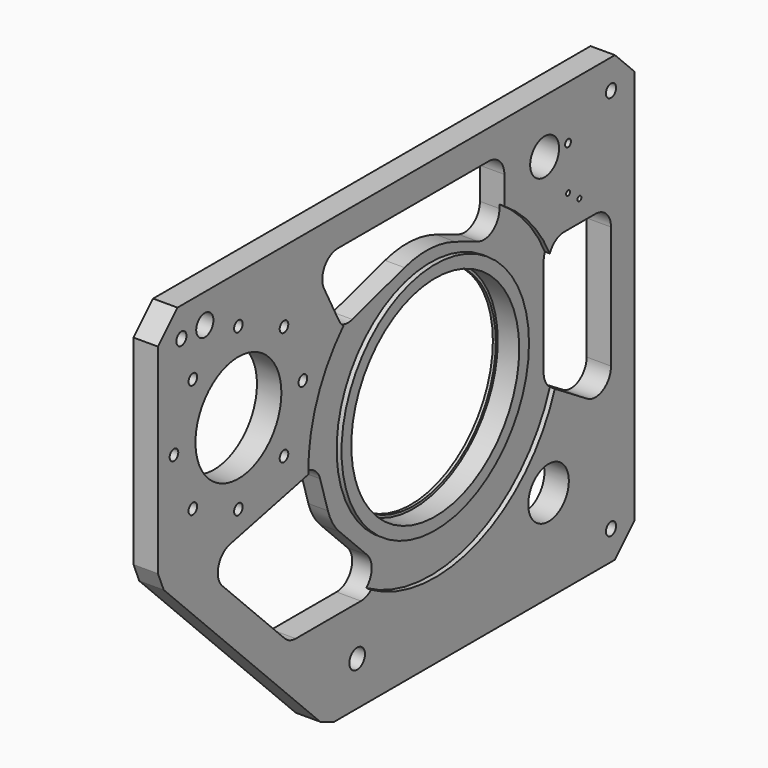
from build123d import *

# Parameters (mm, degrees)
F0_R     = 10
F0_R_2   = 6.5
F0_R_3   = 26
F0_R_4   = 5.5
F0_R_5   = 55
F0_R_6   = 11
F0_R_7   = 105
F0_R_8   = 2.5
F0_R_9   = 18.5
F0_R_10  = 3.75
F1_DEPTH = 25
F2_R     = 107.5
F3_DEPTH = 22
F4_R     = 162.5
F4_R_2   = 120
F5_DEPTH = 5


with BuildPart() as f1:
    # F0 (on Right) → F1 (new body)
    with BuildSketch(Plane.YZ):
        Polygon((255.000028, -215.000014), (255.000028, 189.999986), (230.000028, 214.999986), (-329.999972, 214.999986), (-354.999972, 189.999986), (-354.999972, -14.644675), (-347.677642, -32.322345), (-147.322303, -232.677684), (-129.644633, -240.000014), (230.000028, -240.000014), align=None)
        with Locations((-99.999965, -195.000014)):
            Circle(F0_R, mode=Mode.SUBTRACT)
        with BuildLine():
            ThreePointArc((-178.574351, -145), (-186.228019, -143.477591), (-192.716486, -139.142136))
            Line((-192.716486, -139.142136), (-272.546106, -59.312516))
            ThreePointArc((-272.546106, -59.312516), (-277.602171, -39.564214), (-262.713262, -25.640147))
            Line((-262.713262, -25.640147), (-164.601156, -3.991986))
            ThreePointArc((-164.601156, -3.991986), (-150.180759, -6.266335), (-141.147572, -17.734643))
            Line((-141.147572, -17.734643), (-131.216492, -50.584924))
            ThreePointArc((-131.216492, -50.584924), (-125.261921, -64.044001), (-116.21002, -75.648602))
            Line((-116.21002, -75.648602), (-81.000757, -110.857864))
            ThreePointArc((-81.000757, -110.857864), (-76.665302, -132.653669), (-95.142893, -145))
            Line((-95.142893, -145), (-178.574351, -145))
        make_face(mode=Mode.SUBTRACT)
        with Locations((225.000024, -210.000012)):
            Circle(F0_R_2, mode=Mode.SUBTRACT)
        with Locations((145.000028, -145.000014)):
            Circle(F0_R_3, mode=Mode.SUBTRACT)
        with Locations((-310.336309, 25.663677)):
            Circle(F0_R_4, mode=Mode.SUBTRACT)
        with Locations((-252, 1.499986)):
            Circle(F0_R_4, mode=Mode.SUBTRACT)
        with Locations((-334.5, 83.999986)):
            Circle(F0_R_4, mode=Mode.SUBTRACT)
        with Locations((-252, 83.999986)):
            Circle(F0_R_5, mode=Mode.SUBTRACT)
        with Locations((-193.663691, 25.663677)):
            Circle(F0_R_4, mode=Mode.SUBTRACT)
        with Locations((-169.5, 83.999986)):
            Circle(F0_R_4, mode=Mode.SUBTRACT)
        with Locations((-310.336309, 142.336296)):
            Circle(F0_R_4, mode=Mode.SUBTRACT)
        with Locations((-324.999969, 184.999984)):
            Circle(F0_R_2, mode=Mode.SUBTRACT)
        with Locations((-294.999969, 184.999984)):
            Circle(F0_R_6, mode=Mode.SUBTRACT)
        with Locations((-252, 166.499986)):
            Circle(F0_R_4, mode=Mode.SUBTRACT)
        with Locations((-193.663691, 142.336296)):
            Circle(F0_R_4, mode=Mode.SUBTRACT)
        Circle(F0_R_7, mode=Mode.SUBTRACT)
        with BuildLine():
            ThreePointArc((205, 82), (219.142136, 76.142136), (225, 62))
            Line((225, 62), (225, -63.360385))
            ThreePointArc((225, -63.360385), (214.713957, -80.842921), (194.436095, -80.342844))
            Line((194.436095, -80.342844), (154.436095, -55.460924))
            ThreePointArc((154.436095, -55.460924), (147.517464, -48.192421), (145, -38.478465))
            Line((145, -38.478465), (145, 62))
            ThreePointArc((145, 62), (150.857864, 76.142136), (165, 82))
            Line((165, 82), (205, 82))
        make_face(mode=Mode.SUBTRACT)
        with BuildLine():
            Line((-124.602032, 185), (68.436239, 185))
            ThreePointArc((68.436239, 185), (82.578374, 179.142136), (88.436239, 165))
            Line((88.436239, 165), (88.436239, 132.530642))
            ThreePointArc((88.436239, 132.530642), (79.651422, 115.971063), (61.014273, 113.95877))
            Line((61.014273, 113.95877), (31.989488, 125.558083))
            ThreePointArc((31.989488, 125.558083), (-0.279211, 132.581472), (-33.075883, 128.711678))
            Line((-33.075883, 128.711678), (-99.973507, 109.233479))
            ThreePointArc((-99.973507, 109.233479), (-113.421324, 110.043894), (-123.304149, 119.199785))
            Line((-123.304149, 119.199785), (-142.341565, 155.763715))
            ThreePointArc((-142.341565, 155.763715), (-141.700653, 175.374833), (-124.602032, 185))
        make_face(mode=Mode.SUBTRACT)
        with Locations((170.000028, 114.999986)):
            Circle(F0_R_8, mode=Mode.SUBTRACT)
        with Locations((184.547028, 104.131986)):
            Circle(F0_R_8, mode=Mode.SUBTRACT)
        with Locations((140.000028, 159.999986)):
            Circle(F0_R_9, mode=Mode.SUBTRACT)
        with Locations((170.000028, 159.999986)):
            Circle(F0_R_10, mode=Mode.SUBTRACT)
        with Locations((225.000024, 184.999984)):
            Circle(F0_R_2, mode=Mode.SUBTRACT)
    extrude(amount=F1_DEPTH)

    # F2 (on face) → F3 (cut)
    with BuildSketch(Plane.YZ.offset(25)):
        Circle(F2_R)
    extrude(amount=-F3_DEPTH, mode=Mode.SUBTRACT)

    # F4 (on face) → F5 (cut)
    with BuildSketch(Plane.YZ.offset(25)):
        Circle(F4_R)
        Circle(F4_R_2, mode=Mode.SUBTRACT)
    extrude(amount=-F5_DEPTH, mode=Mode.SUBTRACT)


solid = f1.part
